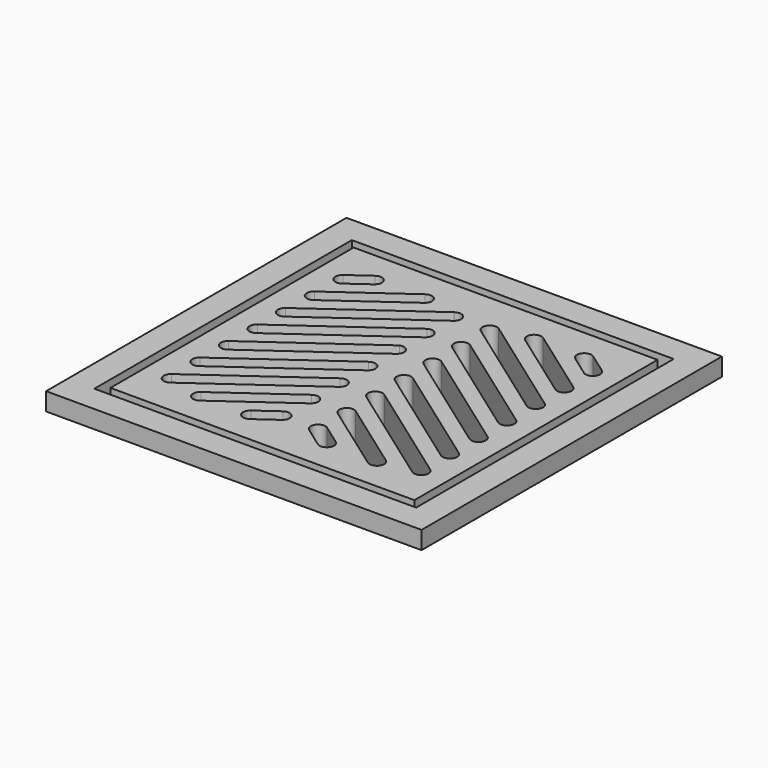
from build123d import *

# Parameters (mm, degrees)
F1_DEPTH = 1
F2_DEPTH = 1


with BuildPart() as f1:
    # F0 (on Top) → F1 (new body)
    with BuildSketch(Plane.XY):
        Polygon((2, 3.5), (2, 2), (3, 2), (3.5, 2), (11, 2), (11.5, 2), (17.5, 2), (19, 2), (19, 19), (2, 19), align=None)
        with BuildLine():
            ThreePointArc((9.2635135135, 6.9739456513), (9.8310810811, 6.8793510567), (9.7364864865, 6.3117834892))
            Line((9.7364864865, 6.3117834892), (5.8, 3.5000074274))
            ThreePointArc((5.8, 3.5000074274), (5.2324324324, 3.594602022), (5.327027027, 4.1621695896))
            Line((5.327027027, 4.1621695896), (9.2635135135, 6.9739456513))
        make_face(mode=Mode.SUBTRACT)
        with BuildLine():
            ThreePointArc((9.2635135135, 4.9739456513), (9.8310810811, 4.8793510567), (9.7364864865, 4.3117834892))
            Line((9.7364864865, 4.3117834892), (8.6, 3.5000074274))
            ThreePointArc((8.6, 3.5000074274), (8.0324324324, 3.594602022), (8.127027027, 4.1621695896))
            Line((8.127027027, 4.1621695896), (9.2635135135, 4.9739456513))
        make_face(mode=Mode.SUBTRACT)
        with BuildLine():
            Line((9.7364864865, 8.3117834892), (3.7364864865, 4.0260692035))
            ThreePointArc((3.7364864865, 4.0260692035), (3.1689189189, 4.1206637981), (3.2635135135, 4.6882313656))
            Line((3.2635135135, 4.6882313656), (9.2635135135, 8.9739456513))
            ThreePointArc((9.2635135135, 8.9739456513), (9.8310810811, 8.8793510567), (9.7364864865, 8.3117834892))
        make_face(mode=Mode.SUBTRACT)
        with BuildLine():
            ThreePointArc((9.2635135135, 10.9739456513), (9.8310810811, 10.8793510567), (9.7364864865, 10.3117834892))
            Line((9.7364864865, 10.3117834892), (3.7364864865, 6.0260692035))
            ThreePointArc((3.7364864865, 6.0260692035), (3.1689189189, 6.1206637981), (3.2635135135, 6.6882313656))
            Line((3.2635135135, 6.6882313656), (9.2635135135, 10.9739456513))
        make_face(mode=Mode.SUBTRACT)
        with BuildLine():
            ThreePointArc((9.3436971033, 13.0185108947), (9.8556308423, 12.8405196013), (9.7364866156, 12.3117836493))
            Line((9.7364866156, 12.3117836493), (3.7364220661, 8.0260248025))
            ThreePointArc((3.7364220661, 8.0260248025), (3.169093087, 8.1204746996), (3.263338585, 8.6878376696))
            Line((3.263338585, 8.6878376696), (3.2647144726, 8.6888176315))
            Line((3.2647144726, 8.6888176315), (9.3436971033, 13.0185108947))
        make_face(mode=Mode.SUBTRACT)
        with BuildLine():
            Line((12.4, 3.5000074274), (11.2635135135, 4.3117834892))
            ThreePointArc((11.2635135135, 4.3117834892), (11.1689189189, 4.8793510567), (11.7364864865, 4.9739456513))
            Line((11.7364864865, 4.9739456513), (12.872972973, 4.1621695896))
            ThreePointArc((12.872972973, 4.1621695896), (12.9675675676, 3.594602022), (12.4, 3.5000074274))
        make_face(mode=Mode.SUBTRACT)
        with BuildLine():
            ThreePointArc((11.2635135135, 6.3117834892), (11.1689189189, 6.8793510567), (11.7364864865, 6.9739456513))
            Line((11.7364864865, 6.9739456513), (15.672972973, 4.1621695896))
            ThreePointArc((15.672972973, 4.1621695896), (15.7675675676, 3.594602022), (15.2, 3.5000074274))
            Line((15.2, 3.5000074274), (11.2635135135, 6.3117834892))
        make_face(mode=Mode.SUBTRACT)
        with BuildLine():
            ThreePointArc((17.7364864865, 4.6882313656), (17.8310810811, 4.1206637981), (17.2635135135, 4.0260692035))
            Line((17.2635135135, 4.0260692035), (11.2635135135, 8.3117834892))
            ThreePointArc((11.2635135135, 8.3117834892), (11.1689189189, 8.8793510567), (11.7364864865, 8.9739456513))
            Line((11.7364864865, 8.9739456513), (17.7364864865, 4.6882313656))
        make_face(mode=Mode.SUBTRACT)
        with BuildLine():
            ThreePointArc((17.7364864865, 6.6882313656), (17.8310810811, 6.1206637981), (17.2635135135, 6.0260692035))
            Line((17.2635135135, 6.0260692035), (11.2635135135, 10.3117834892))
            ThreePointArc((11.2635135135, 10.3117834892), (11.1689189189, 10.8793510567), (11.7364864865, 10.9739456513))
            Line((11.7364864865, 10.9739456513), (17.7364864865, 6.6882313656))
        make_face(mode=Mode.SUBTRACT)
        with BuildLine():
            ThreePointArc((9.3077662905, 15.0014482863), (9.845544905, 14.8576589276), (9.7364863481, 14.3117766609))
            Line((9.7364863481, 14.3117766609), (3.7218457879, 10.0156108405))
            ThreePointArc((3.7218457879, 10.0156108405), (3.1636716169, 10.127639869), (3.2635835281, 10.6881097775))
            Line((3.2635835281, 10.6881097775), (9.3077662905, 15.0014482863))
        make_face(mode=Mode.SUBTRACT)
        with BuildLine():
            ThreePointArc((9.2573834813, 16.9695644641), (9.8241540054, 16.8734642955), (9.7291143701, 16.3065149706))
            Line((9.7291143701, 16.3065149706), (3.7291139187, 12.0208456607))
            ThreePointArc((3.7291139187, 12.0208456607), (3.1587960485, 12.1101706211), (3.2518404943, 12.6798934948))
            Line((3.2518404943, 12.6798934948), (9.2482660176, 16.9630545828))
            Line((9.2482660176, 16.9630545828), (9.2555077667, 16.9682272608))
            Line((9.2555077667, 16.9682272608), (9.2567757637, 16.9691329729))
            ThreePointArc((9.2567757637, 16.9691329729), (9.2570795237, 16.9693488576), (9.2573834813, 16.9695644641))
        make_face(mode=Mode.SUBTRACT)
        with BuildLine():
            ThreePointArc((3.7364864865, 16.0260692035), (3.1689189189, 16.1206637981), (3.2635135135, 16.6882313656))
            Line((3.2635135135, 16.6882313656), (4.4, 17.5000074274))
            ThreePointArc((4.4, 17.5000074274), (4.9675675676, 17.4054128328), (4.872972973, 16.8378452652))
            Line((4.872972973, 16.8378452652), (3.7364864865, 16.0260692035))
        make_face(mode=Mode.SUBTRACT)
        with BuildLine():
            ThreePointArc((3.7364864865, 14.0260692035), (3.1689189189, 14.1206637981), (3.2635135135, 14.6882313656))
            Line((3.2635135135, 14.6882313656), (7.2, 17.5000074274))
            ThreePointArc((7.2, 17.5000074274), (7.7675675676, 17.4054128328), (7.672972973, 16.8378452652))
            Line((7.672972973, 16.8378452652), (3.7364864865, 14.0260692035))
        make_face(mode=Mode.SUBTRACT)
        with BuildLine():
            ThreePointArc((17.7364864865, 8.6882313656), (17.8310810811, 8.1206637981), (17.2635135135, 8.0260692035))
            Line((17.2635135135, 8.0260692035), (11.2635135135, 12.3117834892))
            ThreePointArc((11.2635135135, 12.3117834892), (11.1689189189, 12.8793510567), (11.7364864865, 12.9739456513))
            Line((11.7364864865, 12.9739456513), (17.7364864865, 8.6882313656))
        make_face(mode=Mode.SUBTRACT)
        with BuildLine():
            Line((17.2635135135, 10.0260692035), (11.2635135135, 14.3117834892))
            ThreePointArc((11.2635135135, 14.3117834892), (11.1689189189, 14.8793510567), (11.7364864865, 14.9739456513))
            Line((11.7364864865, 14.9739456513), (17.7364864865, 10.6882313656))
            ThreePointArc((17.7364864865, 10.6882313656), (17.8310810811, 10.1206637981), (17.2635135135, 10.0260692035))
        make_face(mode=Mode.SUBTRACT)
        with BuildLine():
            Line((17.2635135135, 12.0260692035), (11.2635135135, 16.3117834892))
            ThreePointArc((11.2635135135, 16.3117834892), (11.1689189189, 16.8793510567), (11.7364864865, 16.9739456513))
            Line((11.7364864865, 16.9739456513), (17.7364864865, 12.6882313656))
            ThreePointArc((17.7364864865, 12.6882313656), (17.8310810811, 12.1206637981), (17.2635135135, 12.0260692035))
        make_face(mode=Mode.SUBTRACT)
        with BuildLine():
            ThreePointArc((17.7364864865, 14.6882313656), (17.8310810811, 14.1206637981), (17.2635135135, 14.0260692035))
            Line((17.2635135135, 14.0260692035), (13.327027027, 16.8378452652))
            ThreePointArc((13.327027027, 16.8378452652), (13.2324324324, 17.4054128328), (13.8, 17.5000074274))
            Line((13.8, 17.5000074274), (17.7364864865, 14.6882313656))
        make_face(mode=Mode.SUBTRACT)
        with BuildLine():
            Line((16.6, 17.5000074274), (17.7364864865, 16.6882313656))
            ThreePointArc((17.7364864865, 16.6882313656), (17.8310810811, 16.1206637981), (17.2635135135, 16.0260692035))
            Line((17.2635135135, 16.0260692035), (16.127027027, 16.8378452652))
            ThreePointArc((16.127027027, 16.8378452652), (16.0324324324, 17.4054128328), (16.6, 17.5000074274))
        make_face(mode=Mode.SUBTRACT)
    extrude(amount=F1_DEPTH)

    # F2 (add): a face of the model
    f2_faces = [f1.faces().sort_by_distance(p)[0] for p in [
        (10.4995544489, 10.500531174, 0),
    ]]
    extrude(f2_faces, amount=F2_DEPTH)


with BuildPart() as f1b:
    # F0 (on Top) → F1, piece 2 (new body)
    with BuildSketch(Plane.XY):
        Polygon((0, 1.5), (0, 0), (1.5, 0), (21, 0), (21, 21), (0, 21), align=None)
        Polygon((2, 1.5), (1.5, 1.5), (1.5, 2), (1.5, 19.5), (19.5, 19.5), (19.5, 1.5), align=None, mode=Mode.SUBTRACT)
    extrude(amount=F1_DEPTH)


solid = Compound([f1.part, f1b.part])
